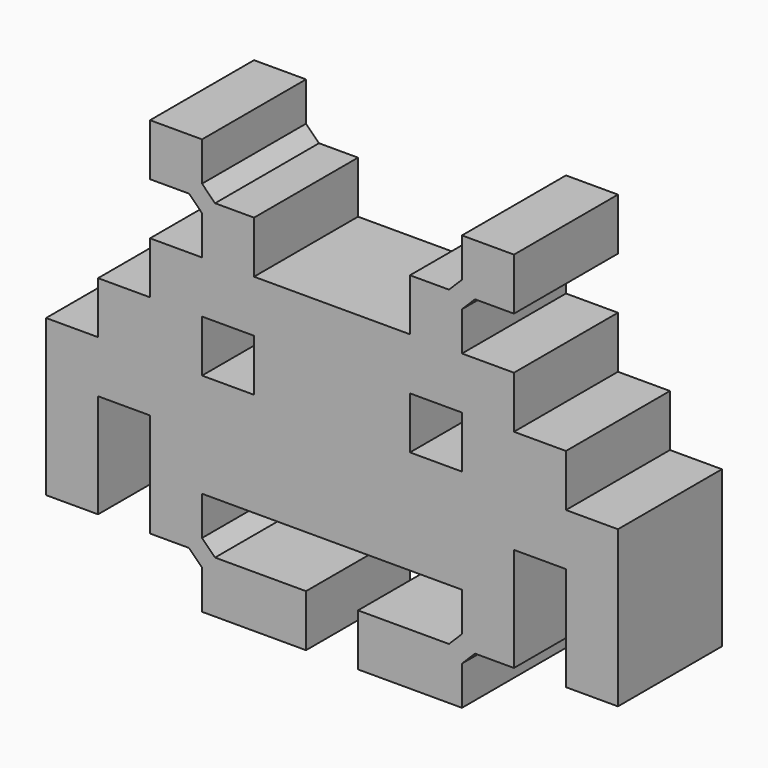
from build123d import *

# Parameters (mm, degrees)
F0_W     = 2
F0_H     = 2
F1_DEPTH = 5


with BuildPart() as f1:
    # F0 (on Front) → F1 (new body)
    with BuildSketch(Plane.XZ):
        Rectangle(F0_W, F0_H)
        with Locations((2, 0)):
            Rectangle(F0_W, F0_H)
        with Locations((-2, 0)):
            Rectangle(F0_W, F0_H)
        with Locations((4, 0)):
            Rectangle(F0_W, F0_H)
        Polygon((3, 3), (3, 1), (5, 1), (5, 2.5), (5, 3), (4.5, 3), align=None)
        Polygon((-5, 1), (-3, 1), (-3, 3), (-4, 3), (-4.5, 3), (-5, 3), (-5, 2.5), (-5, 2), align=None)
        with Locations((-4, 0)):
            Rectangle(F0_W, F0_H)
        with Locations((6, 0)):
            Rectangle(F0_W, F0_H)
        with Locations((-6, 0)):
            Rectangle(F0_W, F0_H)
        with Locations((6, -2)):
            Rectangle(F0_W, F0_H)
        with Locations((2, -6)):
            Rectangle(F0_W, F0_H)
        with Locations((0, -6)):
            Rectangle(F0_W, F0_H)
        Polygon((5, 3), (5, 2.5), (5.5, 3), align=None)
        Polygon((5, 3.5), (4.5, 3), (5, 3), align=None)
        with Locations((-2, -6)):
            Rectangle(F0_W, F0_H)
        with Locations((-6, -2)):
            Rectangle(F0_W, F0_H)
        with Locations((6, -4)):
            Rectangle(F0_W, F0_H)
        with Locations((4, -6)):
            Rectangle(F0_W, F0_H)
        with Locations((8, -2)):
            Rectangle(F0_W, F0_H)
        Polygon((5, 3.5), (5, 3), (5.5, 3), (7, 3), (7, 5), (5, 5), align=None)
        with Locations((-4, -6)):
            Rectangle(F0_W, F0_H)
        with Locations((-6, -4)):
            Rectangle(F0_W, F0_H)
        with Locations((-8, -2)):
            Rectangle(F0_W, F0_H)
        Polygon((-5, 3), (-4.5, 3), (-5, 3.5), align=None)
        Polygon((-5.5, 3), (-5, 2.5), (-5, 3), align=None)
        with Locations((8, -4)):
            Rectangle(F0_W, F0_H)
        with Locations((6, -6)):
            Rectangle(F0_W, F0_H)
        with Locations((-6, -6)):
            Rectangle(F0_W, F0_H)
        with Locations((-8, -4)):
            Rectangle(F0_W, F0_H)
        Polygon((-5.5, 3), (-5, 3), (-5, 3.5), (-5, 4), (-5, 5), (-7, 5), (-7, 3), (-6, 3), align=None)
        with Locations((10, -4)):
            Rectangle(F0_W, F0_H)
        Polygon((7, -7), (5, -7), (5, -8.5), (5, -9), (5.5, -9), (7, -9), align=None)
        Polygon((-5, -8), (-5, -7), (-7, -7), (-7, -9), (-6, -9), (-5.5, -9), (-5, -9), (-5, -8.5), align=None)
        with Locations((-10, -4)):
            Rectangle(F0_W, F0_H)
        with Locations((10, -6)):
            Rectangle(F0_W, F0_H)
        Polygon((5, -9), (5, -8.5), (4.5, -9), align=None)
        with Locations((-10, -6)):
            Rectangle(F0_W, F0_H)
        with Locations((10, -8)):
            Rectangle(F0_W, F0_H)
        Polygon((5, -9.5), (5, -9), (4.5, -9), (3, -9), (3, -11), (5, -11), align=None)
        Polygon((5.5, -9), (5, -9), (5, -9.5), align=None)
        Polygon((-4.5, -9), (-5, -8.5), (-5, -9), align=None)
        with Locations((-10, -8)):
            Rectangle(F0_W, F0_H)
        with Locations((2, -10)):
            Rectangle(F0_W, F0_H)
        Polygon((-4.5, -9), (-5, -9), (-5, -9.5), (-5, -10), (-5, -11), (-3, -11), (-3, -9), (-4, -9), align=None)
        Polygon((-5, -9.5), (-5, -9), (-5.5, -9), align=None)
        with Locations((-2, -10)):
            Rectangle(F0_W, F0_H)
        with Locations((-2, -2)):
            Rectangle(F0_W, F0_H)
        with Locations((-4, -4)):
            Rectangle(F0_W, F0_H)
        with Locations((-2, -4)):
            Rectangle(F0_W, F0_H)
        with Locations((0, -4)):
            Rectangle(F0_W, F0_H)
        with Locations((0, -2)):
            Rectangle(F0_W, F0_H)
        with Locations((4, -4)):
            Rectangle(F0_W, F0_H)
        with Locations((2, -4)):
            Rectangle(F0_W, F0_H)
        with Locations((2, -2)):
            Rectangle(F0_W, F0_H)
    extrude(amount=F1_DEPTH)


solid = f1.part
